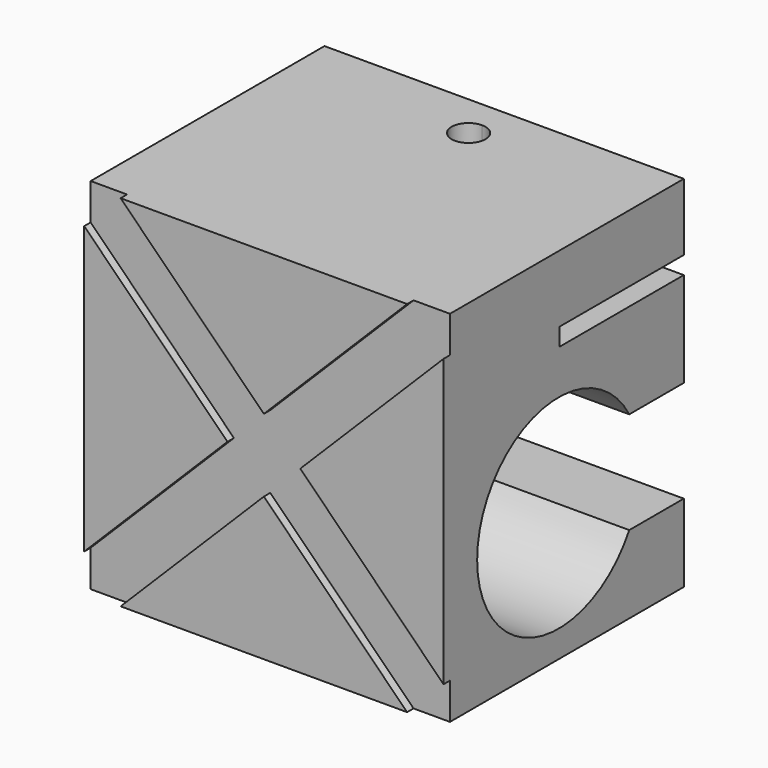
from build123d import *

# Parameters (mm, degrees)
F0_W     = 1701.8
F0_H     = 1701.8
F1_DEPTH = 1422.4
F3_DEPTH = 38.1
F4_W     = 736.6
F4_H     = 83.82
F5_DEPTH = 1950.72
F7_DEPTH = 2123.44
F9_DEPTH = 383.54


with BuildPart() as f1:
    # F0 (on Front) → F1 (new body)
    with BuildSketch(Plane.XZ):
        Rectangle(F0_W, F0_H)
    extrude(amount=F1_DEPTH)

    # F2 (on face) → F3 (cut)
    with BuildSketch(Plane.XZ.offset(1422.4)):
        Polygon((-850.9, 678.4790824755), (-172.4209175245, 0), (0, 172.4209175245), (-678.4790824755, 850.9), (-850.9, 850.9), align=None)
        Polygon((-172.4209175245, 0), (-850.9, -678.4790824755), (-850.9, -850.9), (-678.4790824755, -850.9), (0, -172.4209175245), align=None)
        Polygon((0, 172.4209175245), (-172.4209175245, 0), (0, -172.4209175245), (172.4209175245, 0), align=None)
        Polygon((678.4790824755, 850.9), (0, 172.4209175245), (172.4209175245, 0), (850.9, 678.4790824755), (850.9, 850.9), align=None)
        Polygon((172.4209175245, 0), (0, -172.4209175245), (678.4790824755, -850.9), (850.9, -850.9), (850.9, -678.4790824755), align=None)
    extrude(amount=-F3_DEPTH, mode=Mode.SUBTRACT)

    # F4 (on face) → F5 (cut)
    with BuildSketch(Plane.YZ.offset(850.9)):
        with Locations((-368.3, 491.49)):
            Rectangle(F4_W, F4_H)
    extrude(amount=-F5_DEPTH, mode=Mode.SUBTRACT)

    # F6 (on face) → F7 (cut)
    with BuildSketch(Plane.YZ.offset(850.9)):
        with BuildLine():
            ThreePointArc((-322.7768453567, -482.6), (-274.564901456, -366.2060711665), (-258.1207052231, -241.3))
            ThreePointArc((-258.1207052231, -241.3), (-274.564901456, -116.3939288335), (-322.7768453567, 0))
            Line((-322.7768453567, 0), (-740.7207052231, 0))
            Line((-740.7207052231, 0), (-740.7207052231, -241.3))
            Line((-740.7207052231, -241.3), (-740.7207052231, -482.6))
            Line((-740.7207052231, -482.6), (-322.7768453567, -482.6))
        make_face()
        with BuildLine():
            ThreePointArc((-322.7768453567, 0), (-274.564901456, -116.3939288335), (-258.1207052231, -241.3))
            ThreePointArc((-258.1207052231, -241.3), (-274.564901456, -366.2060711665), (-322.7768453567, -482.6))
            Line((-322.7768453567, -482.6), (76.7071917653, -482.6))
            Line((76.7071917653, -482.6), (76.7071917653, 0))
            Line((76.7071917653, 0), (-322.7768453567, 0))
        make_face()
        with BuildLine():
            Line((-740.7207052231, 0), (-322.7768453567, 0))
            ThreePointArc((-322.7768453567, 0), (-1223.3207052231, -241.3), (-322.7768453567, -482.6))
            Line((-322.7768453567, -482.6), (-740.7207052231, -482.6))
            Line((-740.7207052231, -482.6), (-740.7207052231, -241.3))
            Line((-740.7207052231, -241.3), (-740.7207052231, 0))
        make_face()
    extrude(amount=-F7_DEPTH, mode=Mode.SUBTRACT)

    # F8 (on face) → F9 (cut)
    with BuildSketch(Plane.XY.offset(850.9)):
        with BuildLine():
            ThreePointArc((0, -130.81), (-56.5756135627, -267.3956135627), (80.01, -210.82))
            ThreePointArc((80.01, -210.82), (56.5756135627, -154.2443864373), (0, -130.81))
        make_face()
    extrude(amount=-F9_DEPTH, mode=Mode.SUBTRACT)


solid = f1.part
